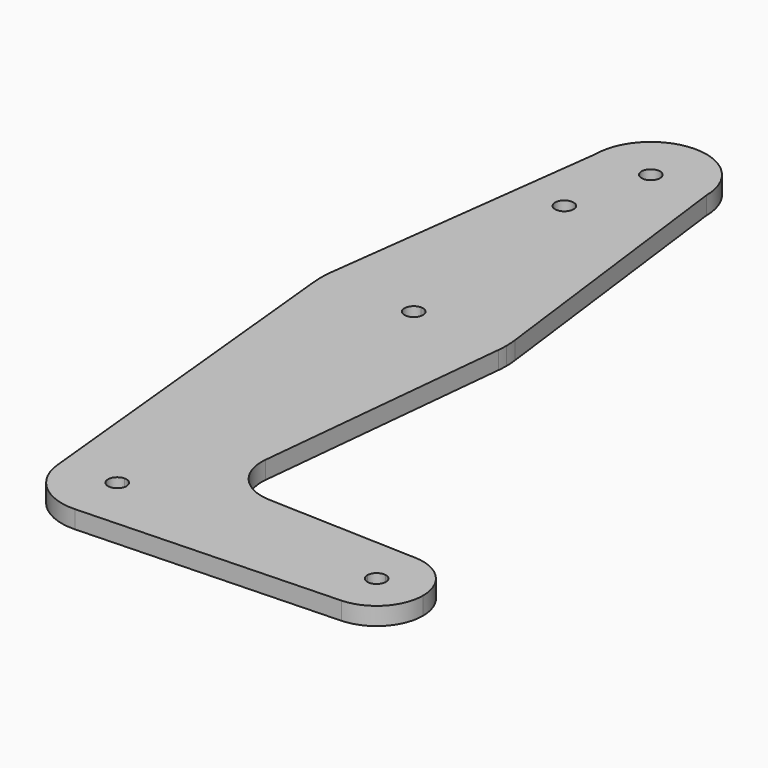
from build123d import *

# Parameters (mm, degrees)
F0_R     = 1.5875
F1_DEPTH = 3.048


with BuildPart() as f1:
    # F0 (on Top) → F1 (new body)
    with BuildSketch(Plane.XY):
        with BuildLine():
            ThreePointArc((1.5875, 0), (-1.1225320151, -1.1225320151), (0, 1.5875))
            Line((0, 1.5875), (0, 9.525))
            ThreePointArc((0, 9.525), (-7.063929059, 6.3895642457), (-9.4772553384, -0.9525))
            ThreePointArc((-9.4772553384, -0.9525), (-6.2623833816, -7.1769199091), (0.3401785714, -9.5189234444))
            ThreePointArc((0.3401785714, -9.5189234444), (6.8544082857, -6.6138273378), (9.525, 0))
            Line((9.525, 0), (1.5875, 0))
        make_face()
        with BuildLine():
            ThreePointArc((-9.4772553384, -0.9525), (-7.063929059, 6.3895642457), (0, 9.525))
            Line((0, 9.525), (0, 47.625))
            ThreePointArc((0, 47.625), (-10.6492737428, 51.7267849017), (-15.7954255641, 61.9125))
            Line((-15.7954255641, 61.9125), (-9.4772553384, -0.9525))
        make_face()
        with BuildLine():
            Line((0, 47.625), (0, 9.525))
            ThreePointArc((0, 9.525), (6.7351920908, 6.7351920908), (9.525, 0))
            Line((9.525, 0), (36.5125, 0))
            ThreePointArc((36.5125, 0), (38.9380895153, 5.7116327839), (44.7324052746, 7.9324746146))
            Line((44.7324052772, 7.9324746877), (18.9676000005, 8.8532337108))
            ThreePointArc((18.9676000005, 8.8532337108), (13.2611998974, 11.5713591498), (11.3411865923, 17.5933818124))
            Line((11.3411865923, 17.5933818124), (15.7954255641, 61.9125))
            ThreePointArc((15.7954255641, 61.9125), (10.6492737428, 51.7267849017), (0, 47.625))
        make_face()
        with BuildLine():
            Line((36.5125, 0), (9.525, 0))
            ThreePointArc((9.525, 0), (6.8544082857, -6.6138273378), (0.3401785714, -9.5189234444))
            Line((0.3401785714, -9.5189234444), (44.7324052772, -7.9324746877))
            ThreePointArc((44.7324052746, -7.9324746146), (38.9380895153, -5.7116327839), (36.5125, 0))
        make_face()
        with BuildLine():
            ThreePointArc((-15.7954255641, 61.9125), (-10.6492737428, 51.7267849017), (0, 47.625))
            Line((0, 47.625), (0, 61.9125))
            ThreePointArc((0, 61.9125), (-1.5875, 63.5), (0, 65.0875))
            Line((0, 65.0875), (0, 79.375))
            ThreePointArc((0, 79.375), (-10.4912828548, 75.4142187767), (-15.7474569047, 65.5082893304))
            ThreePointArc((-15.7474569047, 65.5082893304), (-15.8735876171, 63.7117573215), (-15.7954255641, 61.9125))
        make_face()
        with BuildLine():
            Line((0, 61.9125), (0, 47.625))
            ThreePointArc((0, 47.625), (10.6492737428, 51.7267849017), (15.7954255641, 61.9125))
            ThreePointArc((15.7954255641, 61.9125), (15.8550939106, 62.7052534459), (15.875, 63.5))
            ThreePointArc((15.875, 63.5), (15.8430821396, 64.5061676396), (15.7474569047, 65.5082893304))
            ThreePointArc((15.7474569047, 65.5082893304), (10.4912828548, 75.4142187767), (0, 79.375))
            Line((0, 79.375), (0, 65.0875))
            ThreePointArc((0, 65.0875), (1.1225320151, 64.6225320151), (1.5875, 63.5))
            ThreePointArc((1.5875, 63.5), (1.1225320151, 62.3774679849), (0, 61.9125))
        make_face()
        with BuildLine():
            ThreePointArc((44.7324052746, 7.9324746146), (38.9380895153, 5.7116327839), (36.5125, 0))
            Line((36.5125, 0), (42.8625, 0))
            ThreePointArc((42.8625, 0), (43.4321989692, 1.2182927857), (44.7324052746, 1.5621790905))
            Line((44.7324052746, 1.5621790905), (44.7324052746, 7.9324746146))
        make_face()
        with BuildLine():
            Line((42.8625, 0), (36.5125, 0))
            ThreePointArc((36.5125, 0), (38.9380895153, -5.7116327839), (44.7324052746, -7.9324746146))
            Line((44.7324052746, -7.9324746146), (44.7324052746, -1.5621790905))
            ThreePointArc((44.7324052746, -1.5621790905), (43.4321989692, -1.2182927857), (42.8625, 0))
        make_face()
        with BuildLine():
            ThreePointArc((44.7334821429, 7.9324362036), (44.7329437094, 7.9324554274), (44.7324052746, 7.9324746146))
            Line((44.7324052746, 7.9324746146), (44.7324052746, 1.5621790905))
            ThreePointArc((44.7324052746, 1.5621790905), (45.6682927857, 1.0178010308), (46.0375, 0))
            ThreePointArc((46.0375, 0), (45.6682927857, -1.0178010308), (44.7324052746, -1.5621790905))
            Line((44.7324052746, -1.5621790905), (44.7324052746, -7.9324746146))
            ThreePointArc((44.7324052746, -7.9324746146), (44.7329437094, -7.9324554274), (44.7334821429, -7.9324362036))
            ThreePointArc((44.7334821429, -7.9324362036), (50.1620069047, -5.5115227815), (52.3875, 0))
            ThreePointArc((52.3875, 0), (50.1620069047, 5.5115227815), (44.7334821429, 7.9324362036))
        make_face()
        with BuildLine():
            Line((-9.525, 114.3), (-15.7474569047, 65.5082893304))
            ThreePointArc((-15.7474569047, 65.5082893304), (-10.4912828548, 75.4142187767), (0, 79.375))
            Line((0, 79.375), (0, 104.775))
            ThreePointArc((0, 104.775), (-6.7351920908, 107.5648079092), (-9.525, 114.3))
        make_face()
        with Locations((-3.39970598, 100.0252)):
            Circle(F0_R, mode=Mode.SUBTRACT)
        with BuildLine():
            Line((0, 104.775), (0, 79.375))
            ThreePointArc((0, 79.375), (10.4912828548, 75.4142187767), (15.7474569047, 65.5082893304))
            Line((15.7474569047, 65.5082893304), (9.525, 114.3))
            ThreePointArc((9.525, 114.3), (6.7351920908, 107.5648079092), (0, 104.775))
        make_face()
        with BuildLine():
            ThreePointArc((9.525, 114.3), (0, 123.825), (-9.525, 114.3))
            ThreePointArc((-9.525, 114.3), (-6.7351920908, 107.5648079092), (0, 104.775))
            ThreePointArc((0, 104.775), (6.7351920908, 107.5648079092), (9.525, 114.3))
        make_face()
        with BuildLine():
            ThreePointArc((1.5875, 114.3), (1.1225320151, 113.1774679849), (0, 112.7125))
            ThreePointArc((0, 112.7125), (-1.1225320151, 115.4225320151), (1.5875, 114.3))
        make_face(mode=Mode.SUBTRACT)
        with BuildLine():
            Line((0, 9.525), (0, 1.5875))
            ThreePointArc((0, 1.5875), (1.1225320151, 1.1225320151), (1.5875, 0))
            Line((1.5875, 0), (9.525, 0))
            ThreePointArc((9.525, 0), (6.7351920908, 6.7351920908), (0, 9.525))
        make_face()
    extrude(amount=F1_DEPTH)


solid = f1.part
